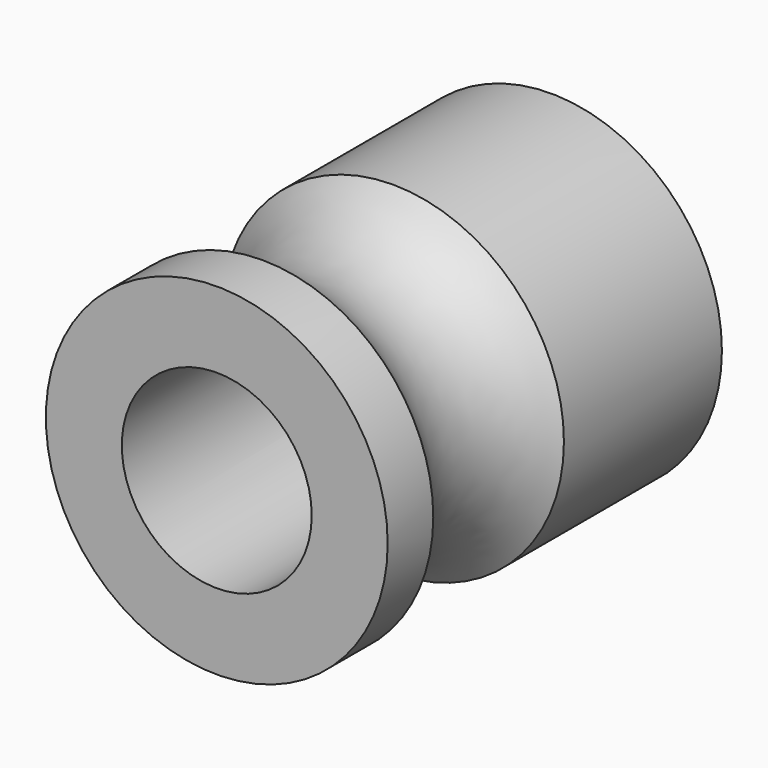
from build123d import *

# Parameters (mm, degrees)
F0_R     = 4.5
F1_DEPTH = 11
F2_R     = 2.5
F3_DEPTH = 11.001
F6_R     = 1.5
F7_DEPTH = 4.501
F8_START = -2
F8_DEPTH = 3


with BuildPart() as f1:
    # F0 (on Front) → F1 (new body)
    with BuildSketch(Plane.XZ):
        Circle(F0_R)
    extrude(amount=F1_DEPTH)

    # F2 (on face) → F3 (cut, through all)
    with BuildSketch(Plane.XZ.offset(11)):
        Circle(F2_R)
    extrude(amount=-F3_DEPTH, mode=Mode.SUBTRACT)

    # F4 (on Right) → F5 (revolve, cut)
    with BuildSketch(Plane.YZ):
        with BuildLine():
            Line((-5.2, 4.5), (-9.5, 4.5))
            ThreePointArc((-9.5, 4.5), (-7.35, 3.45), (-5.2, 4.5))
        make_face()
    revolve(axis=Axis((0, -8.025, 0), (0, -1, 0)), mode=Mode.SUBTRACT)

    # F6 (on Right) → F7 (cut, through all)
    with BuildSketch(Plane.YZ):
        with Locations((-3, 0)):
            Circle(F6_R)
    extrude(amount=-F7_DEPTH, mode=Mode.SUBTRACT)


with BuildPart() as f8:
    # F6 (on Right) → F8 (new body)
    with BuildSketch(Plane.YZ.offset(F8_START)):
        with Locations((-3, 0)):
            Circle(F6_R)
    extrude(amount=-F8_DEPTH)


solid = Compound([f1.part, f8.part])
